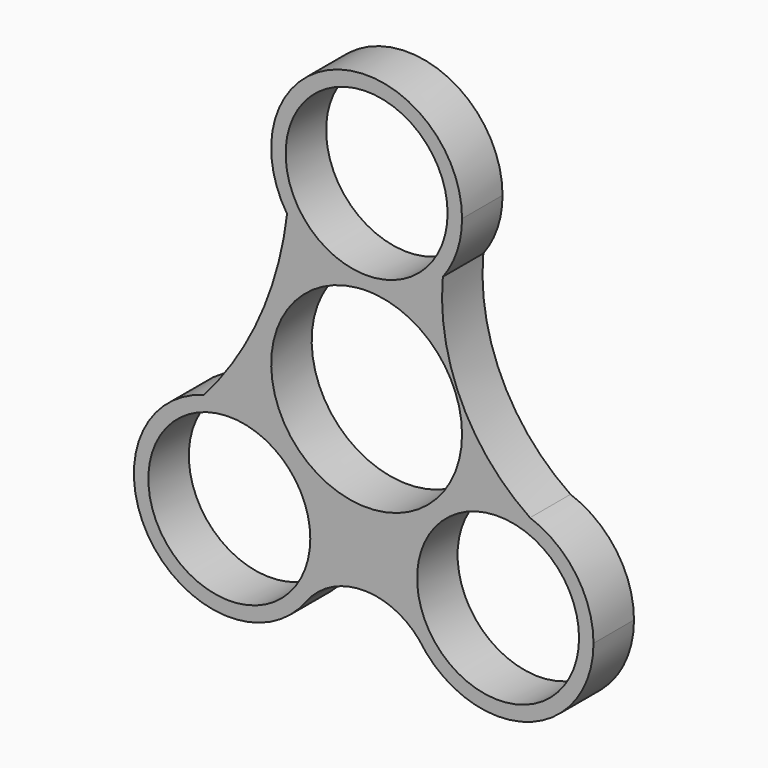
from build123d import *

# Parameters (mm, degrees)
F0_R     = 11.2
F1_DEPTH = 7


with BuildPart() as f1:
    # F0 (on Front) → F1 (new body)
    with BuildSketch(Plane.XZ):
        with BuildLine():
            ThreePointArc((1.342519, 13.131551), (9.79697, 8.846433), (13.2, 0))
            ThreePointArc((13.2, 0), (-8.846433, -9.79697), (-1.342519, 13.131551))
            ThreePointArc((-1.342519, 13.131551), (-6.828327, 14.966469), (-11.002825, 18.970789))
            ThreePointArc((-11.002825, 18.970789), (-14.793964, 5.203063), (-22.511932, -6.81176))
            ThreePointArc((-22.511932, -6.81176), (-10.999135, -9.029118), (-5.792273, -19.533867))
            ThreePointArc((-5.792273, -19.533867), (-6.443274, -23.628086), (-8.332066, -27.318466))
            ThreePointArc((-8.332066, -27.318466), (-0.609837, -23.422527), (7.278308, -26.970528))
            ThreePointArc((7.278308, -26.970528), (7.731584, -11.472533), (22.605845, -7.096501))
            ThreePointArc((22.605845, -7.096501), (13.099262, 3.962593), (10.542851, 18.320289))
            ThreePointArc((10.542851, 18.320289), (6.484308, 14.765549), (1.342519, 13.131551))
        make_face()
        with BuildLine():
            ThreePointArc((-1.342519, 13.131551), (0, 13.2), (1.342519, 13.131551))
            ThreePointArc((1.342519, 13.131551), (6.484308, 14.765549), (10.542851, 18.320289))
            ThreePointArc((10.542851, 18.320289), (12.5181, 22.075361), (13.2, 26.263103))
            ThreePointArc((13.2, 26.263103), (-3.808064, 38.901878), (-11.002825, 18.970789))
            ThreePointArc((-11.002825, 18.970789), (-6.828327, 14.966469), (-1.342519, 13.131551))
        make_face()
        with Locations((0, 26.263103)):
            Circle(F0_R, mode=Mode.SUBTRACT)
        with BuildLine():
            ThreePointArc((31.38409, -19.533867), (28.968504, -11.922269), (22.605845, -7.096501))
            ThreePointArc((22.605845, -7.096501), (7.731584, -11.472533), (7.278308, -26.970528))
            ThreePointArc((7.278308, -26.970528), (22.075342, -32.147279), (31.38409, -19.533867))
        make_face()
        with Locations((18.18409, -19.533867)):
            Circle(F0_R, mode=Mode.SUBTRACT)
        with BuildLine():
            ThreePointArc((-5.792273, -19.533867), (-10.999135, -9.029118), (-22.511932, -6.81176))
            ThreePointArc((-22.511932, -6.81176), (-29.849441, -27.041323), (-8.332066, -27.318466))
            ThreePointArc((-8.332066, -27.318466), (-6.443274, -23.628086), (-5.792273, -19.533867))
        make_face()
        with Locations((-18.992273, -19.533867)):
            Circle(F0_R, mode=Mode.SUBTRACT)
    extrude(amount=F1_DEPTH)


solid = f1.part
